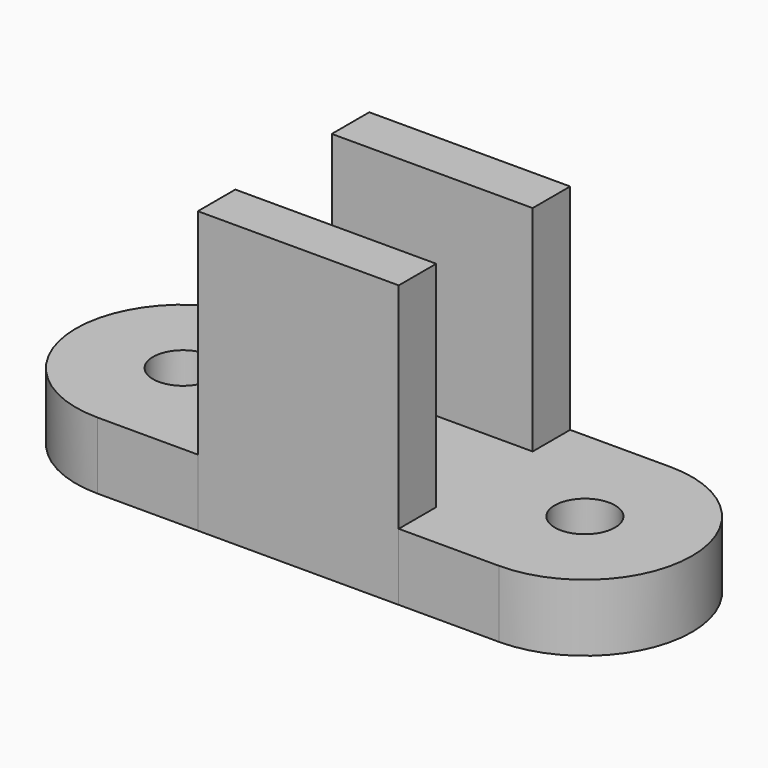
from build123d import *

# Parameters (mm, degrees)
F0_W     = 762
F0_H     = 177.8
F1_DEPTH = 1066.8
F2_DEPTH = 1066.8
F0_R     = 114.3
F3_DEPTH = 254


with BuildPart() as f1:
    # F0 (on Top) → F1 (new body)
    with BuildSketch(Plane.XY):
        with Locations((0, -317.5)):
            Rectangle(F0_W, F0_H)
    extrude(amount=F1_DEPTH)


with BuildPart() as f2:
    # F0 (on Top) → F2 (new body)
    with BuildSketch(Plane.XY):
        with Locations((0, 317.5)):
            Rectangle(F0_W, F0_H)
    extrude(amount=F2_DEPTH)


with BuildPart() as f3:
    # F0 (on Top) → F3 (new body)
    with BuildSketch(Plane.XY):
        with BuildLine():
            ThreePointArc((762, -406.4), (1168.4, 0), (762, 406.4))
            Line((762, 406.4), (381, 406.4))
            Line((381, 406.4), (381, 228.6))
            Line((381, 228.6), (-381, 228.6))
            Line((-381, 228.6), (-381, 406.4))
            Line((-381, 406.4), (-762, 406.4))
            ThreePointArc((-762, 406.4), (-1168.4, 0), (-762, -406.4))
            Line((-762, -406.4), (-381, -406.4))
            Line((-381, -406.4), (-381, -228.6))
            Line((-381, -228.6), (381, -228.6))
            Line((381, -228.6), (381, -406.4))
            Line((381, -406.4), (762, -406.4))
        make_face()
        with Locations((-762, 0)):
            Circle(F0_R, mode=Mode.SUBTRACT)
        with Locations((762, 0)):
            Circle(F0_R, mode=Mode.SUBTRACT)
    extrude(amount=F3_DEPTH)


solid = Compound([f1.part, f2.part, f3.part])
